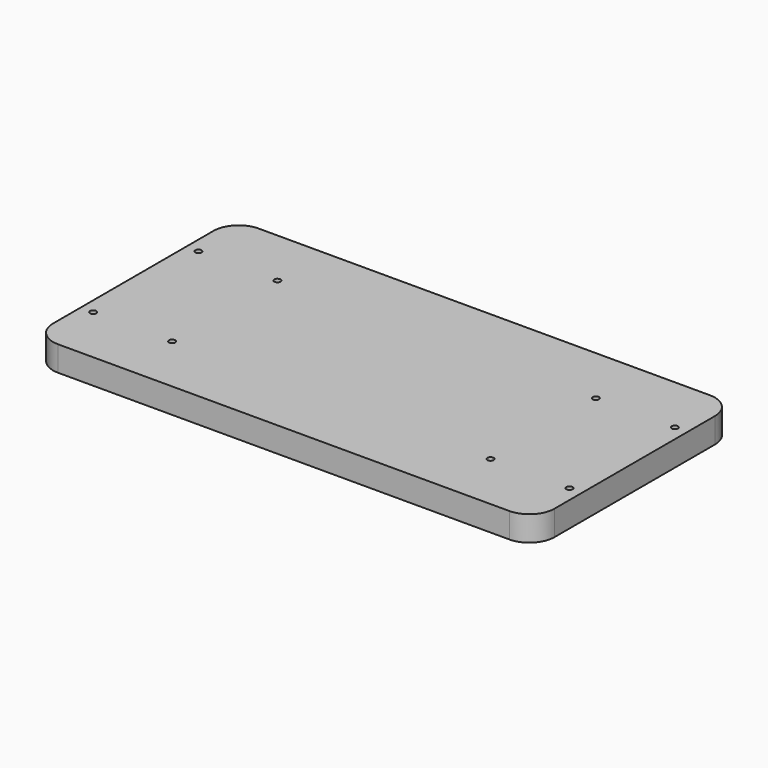
from build123d import *

# Parameters (mm, degrees)
F1_DEPTH = 25.4
F3_D     = 6.35


with BuildPart() as f1:
    # F0 (on Top) → F1 (new body)
    with BuildSketch(Plane.XY):
        with BuildLine():
            Line((-228.6, -127), (228.6, -127))
            ThreePointArc((228.6, -127), (246.560512, -119.560512), (254, -101.6))
            Line((254, -101.6), (254, 101.6))
            ThreePointArc((254, 101.6), (246.560512, 119.560512), (228.6, 127))
            Line((228.6, 127), (-228.6, 127))
            ThreePointArc((-228.6, 127), (-246.560512, 119.560512), (-254, 101.6))
            Line((-254, 101.6), (-254, -101.6))
            ThreePointArc((-254, -101.6), (-246.560512, -119.560512), (-228.6, -127))
        make_face()
    extrude(amount=F1_DEPTH)

    # F3 (through all)
    with Locations(Plane(origin=(0, 0, 0), x_dir=(1, 0, 0), z_dir=(0, 0, -1))):
        with Locations((-241.3, -66.675), (-161.29, -66.675), (-241.3, 66.675), (-161.29, 66.675), (161.29, 66.675), (241.3, 66.675), (241.3, -66.675), (161.29, -66.675)):
            Hole(F3_D / 2)


solid = f1.part
